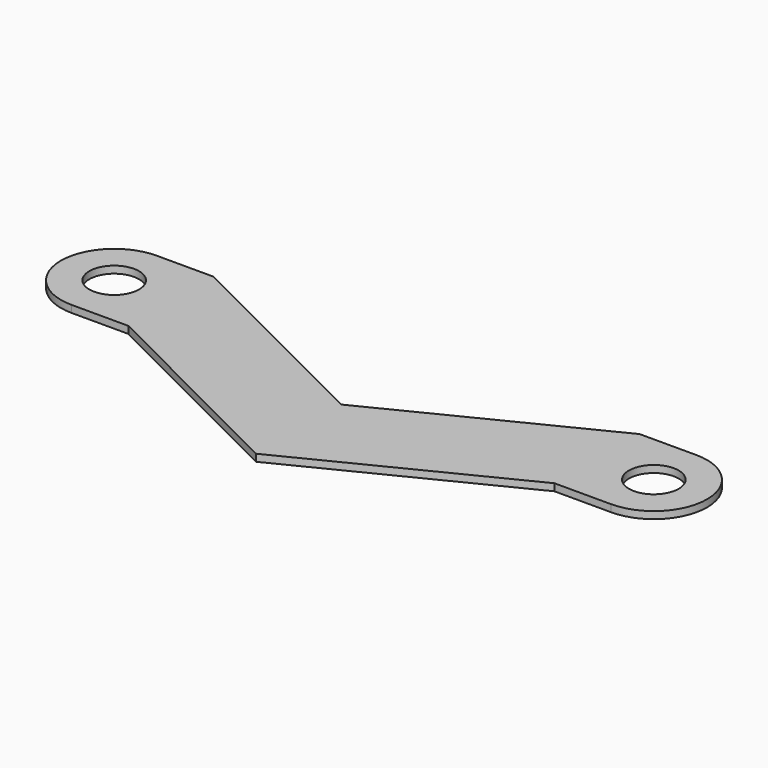
from build123d import *

# Parameters (mm, degrees)
F0_R     = 3.5
F1_DEPTH = 1


with BuildPart() as f1:
    # F0 (on Top) → F1 (new body)
    with BuildSketch(Plane.XY):
        Polygon((0, -15), (-30, 0), (-30, -15), (0, -30), align=None)
        Polygon((30, 0), (0, -15), (0, -30), (30, -15), align=None)
        with BuildLine():
            Line((38, 0), (30, 0))
            Line((30, 0), (30, -15))
            Line((30, -15), (38, -15))
            ThreePointArc((38, -15), (45.5, -7.5), (38, 0))
        make_face()
        with Locations((38, -7.5)):
            Circle(F0_R, mode=Mode.SUBTRACT)
        with BuildLine():
            Line((-30, -15), (-30, 0))
            Line((-30, 0), (-38, 0))
            ThreePointArc((-38, 0), (-45.5, -7.5), (-38, -15))
            Line((-38, -15), (-30, -15))
        make_face()
        with Locations((-38, -7.5)):
            Circle(F0_R, mode=Mode.SUBTRACT)
    extrude(amount=F1_DEPTH)


solid = f1.part
